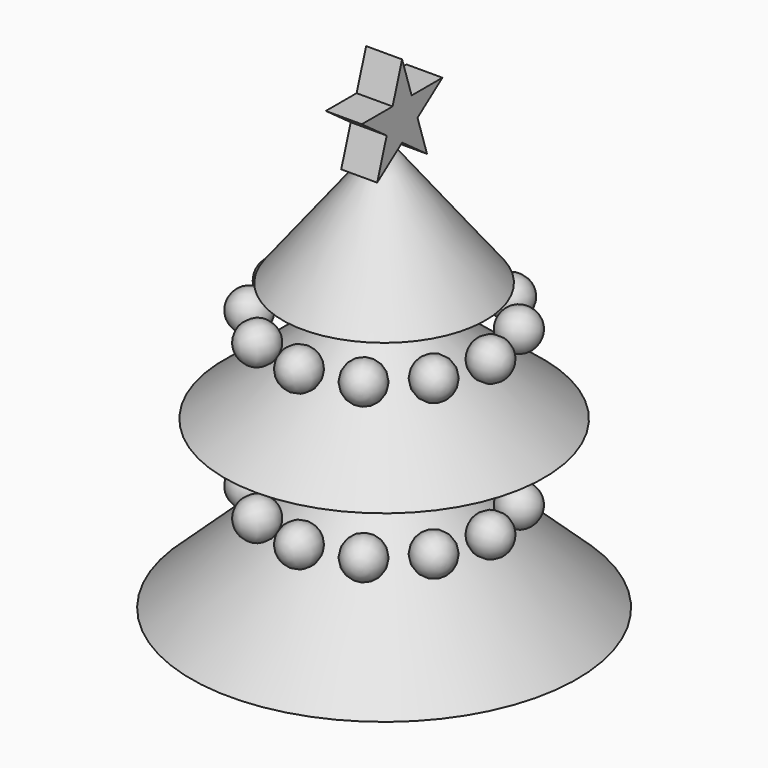
from build123d import *

# Parameters (mm, degrees)
F3_DEPTH = 2.54
F7_COUNT = 12


with BuildPart() as f1:
    # F0 (on Right) → F1 (revolve)
    with BuildSketch(Plane.YZ):
        Polygon((14.321928, 33.234216), (0, 51.595663), (0, -18.254337), (1.836145, -18.254337), (1.836145, -7.160964), (27.236145, -7.160964), (1.836145, 16.341687), (22.584579, 16.341687), (1.836145, 33.234216), align=None)
    revolve(axis=Axis((0, 0, 16.670663), (0, 0, -1)))


with BuildPart() as f3:
    # F2 (on Right) → F3 (new body, symmetric)
    with BuildSketch(Plane.YZ):
        Polygon((0, 51.504342), (4.398193, 48.308868), (2.718233, 53.479254), (7.116425, 56.674728), (1.67996, 56.674728), (0, 61.845113), (-1.67996, 56.674728), (-7.116425, 56.674728), (-2.718233, 53.479254), (-4.398193, 48.308868), align=None)
    extrude(amount=F3_DEPTH, both=True)


with BuildPart() as f5:
    # F4 (on face) → F5 (revolve)
    with BuildSketch(Plane(origin=(0, 0, 33.234216), x_dir=(1, 0, 0), z_dir=(0, 0, -1))):
        with BuildLine():
            Line((0, -22.675646), (0, -28.206291))
            ThreePointArc((0, -28.206291), (2.765322, -25.440969), (0, -22.675646))
        make_face()
    revolve(axis=Axis((0, 25.440969, 33.234216), (0, -1, 0)))


with BuildPart() as f5_1:
    # F6: moved
    add(f5.part.moved(Location((0, -10.414, -26.416))))


with BuildPart() as f7_1:
    # F7: instance of F5
    add(f5_1.part.rotate(Axis((0, 0, -18.254337), (0, 0, 1)), 1 * 360 / F7_COUNT))


with BuildPart() as f7_2:
    # F7: instance of F5
    add(f5_1.part.rotate(Axis((0, 0, -18.254337), (0, 0, 1)), 2 * 360 / F7_COUNT))


with BuildPart() as f7_3:
    # F7: instance of F5
    add(f5_1.part.rotate(Axis((0, 0, -18.254337), (0, 0, 1)), 3 * 360 / F7_COUNT))


with BuildPart() as f7_4:
    # F7: instance of F5
    add(f5_1.part.rotate(Axis((0, 0, -18.254337), (0, 0, 1)), 4 * 360 / F7_COUNT))


with BuildPart() as f7_5:
    # F7: instance of F5
    add(f5_1.part.rotate(Axis((0, 0, -18.254337), (0, 0, 1)), 5 * 360 / F7_COUNT))


with BuildPart() as f7_6:
    # F7: instance of F5
    add(f5_1.part.rotate(Axis((0, 0, -18.254337), (0, 0, 1)), 6 * 360 / F7_COUNT))


with BuildPart() as f7_7:
    # F7: instance of F5
    add(f5_1.part.rotate(Axis((0, 0, -18.254337), (0, 0, 1)), 7 * 360 / F7_COUNT))


with BuildPart() as f7_8:
    # F7: instance of F5
    add(f5_1.part.rotate(Axis((0, 0, -18.254337), (0, 0, 1)), 8 * 360 / F7_COUNT))


with BuildPart() as f7_9:
    # F7: instance of F5
    add(f5_1.part.rotate(Axis((0, 0, -18.254337), (0, 0, 1)), 9 * 360 / F7_COUNT))


with BuildPart() as f7_10:
    # F7: instance of F5
    add(f5_1.part.rotate(Axis((0, 0, -18.254337), (0, 0, 1)), 10 * 360 / F7_COUNT))


with BuildPart() as f7_11:
    # F7: instance of F5
    add(f5_1.part.rotate(Axis((0, 0, -18.254337), (0, 0, 1)), 11 * 360 / F7_COUNT))


with BuildPart() as f8_1:
    # F8: copy of F5
    add(f5_1.part.moved(Location((0, 0, 21.844))))


with BuildPart() as f8_2:
    # F8: copy of F7_11
    add(f7_11.part.moved(Location((0, 0, 21.844))))


with BuildPart() as f8_3:
    # F8: copy of F7_10
    add(f7_10.part.moved(Location((0, 0, 21.844))))


with BuildPart() as f8_4:
    # F8: copy of F7_9
    add(f7_9.part.moved(Location((0, 0, 21.844))))


with BuildPart() as f8_5:
    # F8: copy of F7_8
    add(f7_8.part.moved(Location((0, 0, 21.844))))


with BuildPart() as f8_6:
    # F8: copy of F7_7
    add(f7_7.part.moved(Location((0, 0, 21.844))))


with BuildPart() as f8_7:
    # F8: copy of F7_6
    add(f7_6.part.moved(Location((0, 0, 21.844))))


with BuildPart() as f8_8:
    # F8: copy of F7_5
    add(f7_5.part.moved(Location((0, 0, 21.844))))


with BuildPart() as f8_9:
    # F8: copy of F7_4
    add(f7_4.part.moved(Location((0, 0, 21.844))))


with BuildPart() as f8_10:
    # F8: copy of F7_2
    add(f7_2.part.moved(Location((0, 0, 21.844))))


with BuildPart() as f8_11:
    # F8: copy of F7_3
    add(f7_3.part.moved(Location((0, 0, 21.844))))


solid = Compound([f1.part, f3.part, f5_1.part, f7_1.part, f7_2.part, f7_3.part, f7_4.part, f7_5.part, f7_6.part, f7_7.part, f7_8.part, f7_9.part, f7_10.part, f7_11.part, f8_1.part, f8_2.part, f8_3.part, f8_4.part, f8_5.part, f8_6.part, f8_7.part, f8_8.part, f8_9.part, f8_10.part, f8_11.part])
